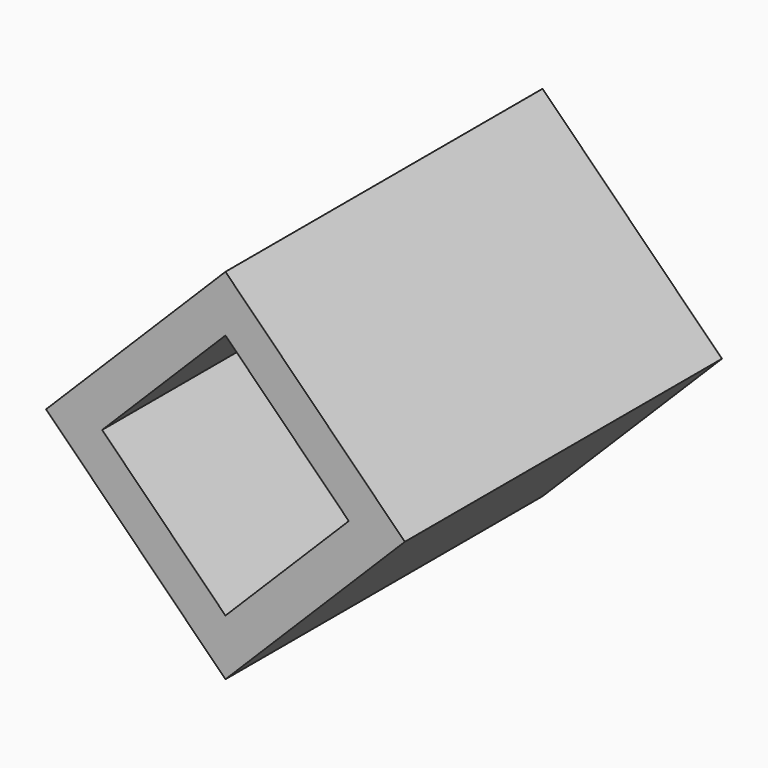
from build123d import *

# Parameters (mm, degrees)
F1_DEPTH = 50


with BuildPart() as f1:
    # F0 (on Front) → F1 (new body)
    with BuildSketch(Plane.XZ):
        Polygon((0, 22.627417), (-22.627417, 0), (0, -22.627417), (22.627417, 0), align=None)
        Polygon((-15.556349, 0), (0, 15.556349), (15.556349, 0), (0, -15.556349), align=None, mode=Mode.SUBTRACT)
    extrude(amount=F1_DEPTH)


solid = f1.part
